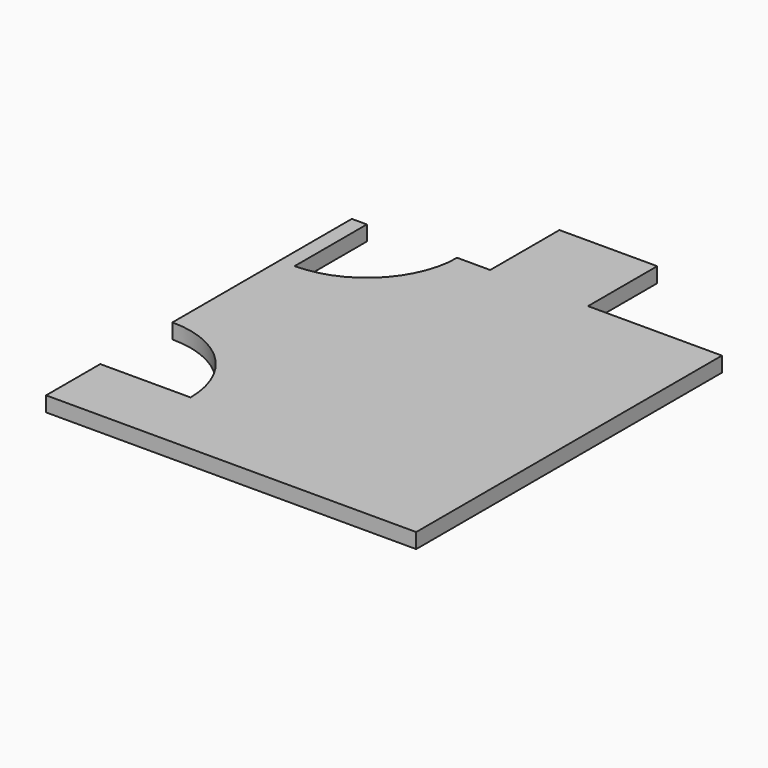
from build123d import *

# Parameters (mm, degrees)
F1_DEPTH = 5


with BuildPart() as f1:
    # F0 (on Top) → F1 (new body)
    with BuildSketch(Plane.XY):
        with BuildLine():
            Line((61.5, -63.5), (61.5, 63.5))
            Line((61.5, 63.5), (17, 63.5))
            Line((17, 63.5), (17, 92.25))
            Line((17, 92.25), (-15.5, 92.25))
            Line((-15.5, 92.25), (-15.5, 63.5))
            Line((-15.5, 63.5), (-26.5, 63.5))
            ThreePointArc((-26.5, 63.5), (-35.286797, 42.286797), (-56.5, 33.5))
            Line((-56.5, 33.5), (-56.5, 63.5))
            Line((-56.5, 63.5), (-61.5, 63.5))
            Line((-61.5, 63.5), (-61.5, -11))
            ThreePointArc((-61.5, -11), (-40.286797, -19.786797), (-31.5, -41))
            Line((-31.5, -41), (-61.5, -41))
            Line((-61.5, -41), (-61.5, -63.5))
            Line((-61.5, -63.5), (61.5, -63.5))
        make_face()
    extrude(amount=F1_DEPTH)


solid = f1.part
